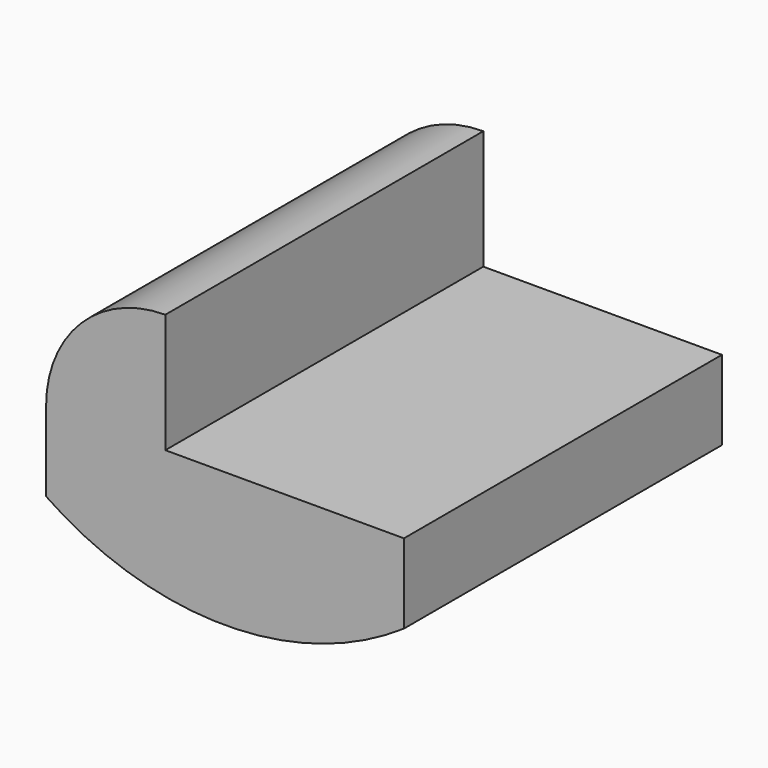
from build123d import *

# Parameters (mm, degrees)
F1_DEPTH = 100


with BuildPart() as f1:
    # F0 (on Front) → F1 (new body)
    with BuildSketch(Plane.XZ):
        with BuildLine():
            ThreePointArc((-57.354605, -22.622997), (-12.33847, -36.490195), (32.677665, -22.622997))
            Line((32.677665, -22.622997), (32.677665, -2.622997))
            Line((32.677665, -2.622997), (-27.354605, -2.622997))
            Line((-27.354605, -2.622997), (-27.354605, 27.377003))
            ThreePointArc((-27.354605, 27.377003), (-48.567809, 18.590206), (-57.354605, -2.622997))
            Line((-57.354605, -2.622997), (-57.354605, -22.622997))
        make_face()
    extrude(amount=F1_DEPTH)


solid = f1.part
